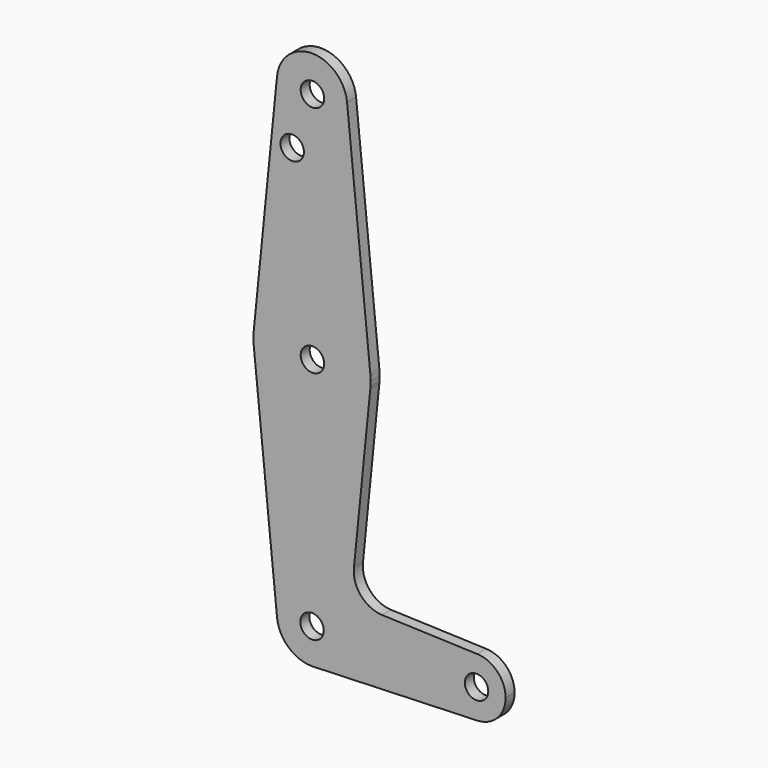
from build123d import *

# Parameters (mm, degrees)
F0_R     = 3.175
F1_DEPTH = 3.048


with BuildPart() as f1:
    # F0 (on Front) → F1 (new body)
    with BuildSketch(Plane.XZ):
        with BuildLine():
            ThreePointArc((0.677344, -9.500886), (6.970557, -6.491299), (9.525, 0))
            ThreePointArc((9.525, 0), (-0.476608, 9.513068), (-9.477303, -0.952022))
            ThreePointArc((-9.477303, -0.952022), (-6.389742, -7.063768), (0, -9.525))
            Line((0, -9.525), (0.677344, -9.500886))
        make_face()
        Circle(F0_R, mode=Mode.SUBTRACT)
        with BuildLine():
            ThreePointArc((-9.477303, -0.952022), (-0.476608, 9.513068), (9.525, 0))
            ThreePointArc((9.525, 0), (6.970557, -6.491299), (0.677344, -9.500886))
            Line((0.677344, -9.500886), (44.732405, -7.932475))
            ThreePointArc((44.732405, -7.932475), (36.5125, 0), (44.732405, 7.932475))
            Line((44.732405, 7.932475), (18.967387, 8.849739))
            ThreePointArc((18.967387, 8.849739), (13.260395, 11.567345), (11.339855, 17.589527))
            Line((11.339855, 17.589527), (15.760555, 61.597229))
            ThreePointArc((15.760555, 61.597229), (0, 47.625), (-15.760555, 61.597229))
            Line((-15.760555, 61.597229), (-9.477303, -0.952022))
        make_face()
        with BuildLine():
            ThreePointArc((0, -9.525), (0.338886, -9.51897), (0.677344, -9.500886))
            Line((0.677344, -9.500886), (0, -9.525))
        make_face()
        with BuildLine():
            Line((-15.824118, 62.23), (-15.760555, 61.597229))
            ThreePointArc((-15.760555, 61.597229), (0, 47.625), (15.760555, 61.597229))
            Line((15.760555, 61.597229), (15.824118, 62.23))
            ThreePointArc((15.824118, 62.23), (15.862275, 62.864491), (15.875, 63.5))
            ThreePointArc((15.875, 63.5), (15.862275, 64.135509), (15.824118, 64.77))
            Line((15.824118, 64.77), (15.760555, 65.402771))
            ThreePointArc((15.760555, 65.402771), (0, 79.375), (-15.760555, 65.402771))
            Line((-15.760555, 65.402771), (-15.824118, 64.77))
            ThreePointArc((-15.824118, 64.77), (-15.875, 63.5), (-15.824118, 62.23))
        make_face()
        with Locations((0.101003, 63.601226)):
            Circle(F0_R, mode=Mode.SUBTRACT)
        with BuildLine():
            ThreePointArc((-15.824118, 62.23), (-15.795506, 61.913296), (-15.760555, 61.597229))
            Line((-15.760555, 61.597229), (-15.824118, 62.23))
        make_face()
        with BuildLine():
            ThreePointArc((44.732405, 7.932475), (36.5125, 0), (44.732405, -7.932475))
            ThreePointArc((44.732405, -7.932475), (50.161633, -5.51191), (52.3875, 0))
            ThreePointArc((52.3875, 0), (50.161633, 5.51191), (44.732405, 7.932475))
        make_face()
        with Locations((44.523334, -0.000948)):
            Circle(F0_R, mode=Mode.SUBTRACT)
        with BuildLine():
            Line((15.824118, 62.23), (15.760555, 61.597229))
            ThreePointArc((15.760555, 61.597229), (15.795506, 61.913296), (15.824118, 62.23))
        make_face()
        with BuildLine():
            ThreePointArc((-15.760555, 65.402771), (-15.795506, 65.086704), (-15.824118, 64.77))
            Line((-15.824118, 64.77), (-15.760555, 65.402771))
        make_face()
        with BuildLine():
            Line((-9.477303, 127.952022), (-15.760555, 65.402771))
            ThreePointArc((-15.760555, 65.402771), (0, 79.375), (15.760555, 65.402771))
            Line((15.760555, 65.402771), (9.477303, 127.952022))
            ThreePointArc((9.477303, 127.952022), (9.513068, 127.476608), (9.525, 127))
            ThreePointArc((9.525, 127), (-0.476608, 117.486932), (-9.477303, 127.952022))
        make_face()
        with Locations((-5.378583, 112.270229)):
            Circle(F0_R, mode=Mode.SUBTRACT)
        with BuildLine():
            ThreePointArc((15.824118, 64.77), (15.795506, 65.086704), (15.760555, 65.402771))
            Line((15.760555, 65.402771), (15.824118, 64.77))
        make_face()
        with BuildLine():
            ThreePointArc((9.477303, 127.952022), (0, 136.525), (-9.477303, 127.952022))
            ThreePointArc((-9.477303, 127.952022), (-0.476608, 117.486932), (9.525, 127))
            ThreePointArc((9.525, 127), (9.513068, 127.476608), (9.477303, 127.952022))
        make_face()
        with Locations((0.101003, 126.807719)):
            Circle(F0_R, mode=Mode.SUBTRACT)
    extrude(amount=F1_DEPTH)


solid = f1.part
